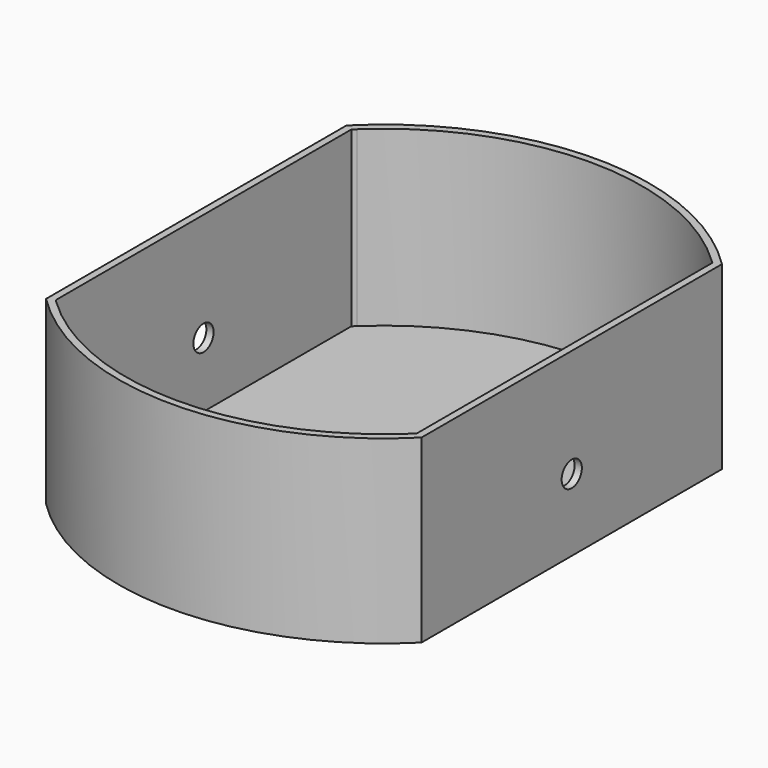
from build123d import *

# Parameters (mm, degrees)
F0_W     = 100
F0_H     = 100
F1_DEPTH = 2
F2_DEPTH = 50
F3_R     = 3.5
F4_DEPTH = 104.001


with BuildPart() as f1:
    # F0 (on Top) → F1 (new body)
    with BuildSketch(Plane.XY):
        with BuildLine():
            ThreePointArc((-49.1308821316, -52), (0, -71.5391052434), (49.1308821316, -52))
            Line((49.1308821316, -52), (-49.1308821316, -52))
        make_face()
        Rectangle(F0_W, F0_H)
        with BuildLine():
            Line((-49.1308821316, 52), (49.1308821316, 52))
            ThreePointArc((49.1308821316, 52), (0, 71.5391052434), (-49.1308821316, 52))
        make_face()
        with BuildLine():
            Line((49.1308821316, 52), (52, 52))
            ThreePointArc((52, 52), (0, 73.5391052434), (-52, 52))
            Line((-52, 52), (-49.1308821316, 52))
            ThreePointArc((-49.1308821316, 52), (0, 71.5391052434), (49.1308821316, 52))
        make_face()
        with BuildLine():
            ThreePointArc((50, 51.1648666472), (49.5671999408, 51.5842637735), (49.1308821316, 52))
            Line((49.1308821316, 52), (-49.1308821316, 52))
            ThreePointArc((-49.1308821316, 52), (-49.5671999408, 51.5842637735), (-50, 51.1648666472))
            Line((-50, 51.1648666472), (-50, 50))
            Line((-50, 50), (50, 50))
            Line((50, 50), (50, 51.1648666472))
        make_face()
        with BuildLine():
            Line((-49.1308821316, 52), (-52, 52))
            Line((-52, 52), (-52, 49.1308821316))
            ThreePointArc((-52, 49.1308821316), (-51.010138926, 50.1578439107), (-50, 51.1648666472))
            ThreePointArc((-50, 51.1648666472), (-49.5671999408, 51.5842637735), (-49.1308821316, 52))
        make_face()
        with BuildLine():
            Line((52, 49.1308821316), (52, 52))
            Line((52, 52), (49.1308821316, 52))
            ThreePointArc((49.1308821316, 52), (49.5671999408, 51.5842637735), (50, 51.1648666472))
            ThreePointArc((50, 51.1648666472), (51.010138926, 50.1578439107), (52, 49.1308821316))
        make_face()
        with BuildLine():
            Line((49.1308821316, -52), (52, -52))
            Line((52, -52), (52, -49.1308821316))
            ThreePointArc((52, -49.1308821316), (51.010138926, -50.1578439107), (50, -51.1648666472))
            ThreePointArc((50, -51.1648666472), (49.5671999408, -51.5842637735), (49.1308821316, -52))
        make_face()
        with BuildLine():
            ThreePointArc((-52, -52), (0, -73.5391052434), (52, -52))
            Line((52, -52), (49.1308821316, -52))
            ThreePointArc((49.1308821316, -52), (0, -71.5391052434), (-49.1308821316, -52))
            Line((-49.1308821316, -52), (-52, -52))
        make_face()
        with BuildLine():
            Line((-52, -49.1308821316), (-52, -52))
            Line((-52, -52), (-49.1308821316, -52))
            ThreePointArc((-49.1308821316, -52), (-49.5671999408, -51.5842637735), (-50, -51.1648666472))
            ThreePointArc((-50, -51.1648666472), (-51.010138926, -50.1578439107), (-52, -49.1308821316))
        make_face()
        with BuildLine():
            ThreePointArc((-50, 51.1648666472), (-51.010138926, 50.1578439107), (-52, 49.1308821316))
            Line((-52, 49.1308821316), (-52, -49.1308821316))
            ThreePointArc((-52, -49.1308821316), (-51.010138926, -50.1578439107), (-50, -51.1648666472))
            Line((-50, -51.1648666472), (-50, -50))
            Line((-50, -50), (-50, 50))
            Line((-50, 50), (-50, 51.1648666472))
        make_face()
        with BuildLine():
            Line((52, -49.1308821316), (52, 49.1308821316))
            ThreePointArc((52, 49.1308821316), (51.010138926, 50.1578439107), (50, 51.1648666472))
            Line((50, 51.1648666472), (50, 50))
            Line((50, 50), (50, -50))
            Line((50, -50), (50, -51.1648666472))
            ThreePointArc((50, -51.1648666472), (51.010138926, -50.1578439107), (52, -49.1308821316))
        make_face()
        with BuildLine():
            Line((-49.1308821316, -52), (49.1308821316, -52))
            ThreePointArc((49.1308821316, -52), (49.5671999408, -51.5842637735), (50, -51.1648666472))
            Line((50, -51.1648666472), (50, -50))
            Line((50, -50), (-50, -50))
            Line((-50, -50), (-50, -51.1648666472))
            ThreePointArc((-50, -51.1648666472), (-49.5671999408, -51.5842637735), (-49.1308821316, -52))
        make_face()
    extrude(amount=F1_DEPTH)

    # F0 (on Top) → F2 (join)
    with BuildSketch(Plane.XY):
        with BuildLine():
            ThreePointArc((-50, 51.1648666472), (-51.010138926, 50.1578439107), (-52, 49.1308821316))
            Line((-52, 49.1308821316), (-52, -49.1308821316))
            ThreePointArc((-52, -49.1308821316), (-51.010138926, -50.1578439107), (-50, -51.1648666472))
            Line((-50, -51.1648666472), (-50, -50))
            Line((-50, -50), (-50, 50))
            Line((-50, 50), (-50, 51.1648666472))
        make_face()
        with BuildLine():
            Line((-49.1308821316, 52), (-52, 52))
            Line((-52, 52), (-52, 49.1308821316))
            ThreePointArc((-52, 49.1308821316), (-51.010138926, 50.1578439107), (-50, 51.1648666472))
            ThreePointArc((-50, 51.1648666472), (-49.5671999408, 51.5842637735), (-49.1308821316, 52))
        make_face()
        with BuildLine():
            Line((49.1308821316, 52), (52, 52))
            ThreePointArc((52, 52), (0, 73.5391052434), (-52, 52))
            Line((-52, 52), (-49.1308821316, 52))
            ThreePointArc((-49.1308821316, 52), (0, 71.5391052434), (49.1308821316, 52))
        make_face()
        with BuildLine():
            Line((52, -49.1308821316), (52, 49.1308821316))
            ThreePointArc((52, 49.1308821316), (51.010138926, 50.1578439107), (50, 51.1648666472))
            Line((50, 51.1648666472), (50, 50))
            Line((50, 50), (50, -50))
            Line((50, -50), (50, -51.1648666472))
            ThreePointArc((50, -51.1648666472), (51.010138926, -50.1578439107), (52, -49.1308821316))
        make_face()
        with BuildLine():
            Line((52, 49.1308821316), (52, 52))
            Line((52, 52), (49.1308821316, 52))
            ThreePointArc((49.1308821316, 52), (49.5671999408, 51.5842637735), (50, 51.1648666472))
            ThreePointArc((50, 51.1648666472), (51.010138926, 50.1578439107), (52, 49.1308821316))
        make_face()
        with BuildLine():
            Line((49.1308821316, -52), (52, -52))
            Line((52, -52), (52, -49.1308821316))
            ThreePointArc((52, -49.1308821316), (51.010138926, -50.1578439107), (50, -51.1648666472))
            ThreePointArc((50, -51.1648666472), (49.5671999408, -51.5842637735), (49.1308821316, -52))
        make_face()
        with BuildLine():
            ThreePointArc((-52, -52), (0, -73.5391052434), (52, -52))
            Line((52, -52), (49.1308821316, -52))
            ThreePointArc((49.1308821316, -52), (0, -71.5391052434), (-49.1308821316, -52))
            Line((-49.1308821316, -52), (-52, -52))
        make_face()
        with BuildLine():
            Line((-52, -49.1308821316), (-52, -52))
            Line((-52, -52), (-49.1308821316, -52))
            ThreePointArc((-49.1308821316, -52), (-49.5671999408, -51.5842637735), (-50, -51.1648666472))
            ThreePointArc((-50, -51.1648666472), (-51.010138926, -50.1578439107), (-52, -49.1308821316))
        make_face()
    extrude(amount=F2_DEPTH)

    # F3 (on face) → F4 (cut, through all)
    with BuildSketch(Plane.YZ.offset(52)):
        with Locations((0, 20)):
            Circle(F3_R)
    extrude(amount=-F4_DEPTH, mode=Mode.SUBTRACT)


solid = f1.part
